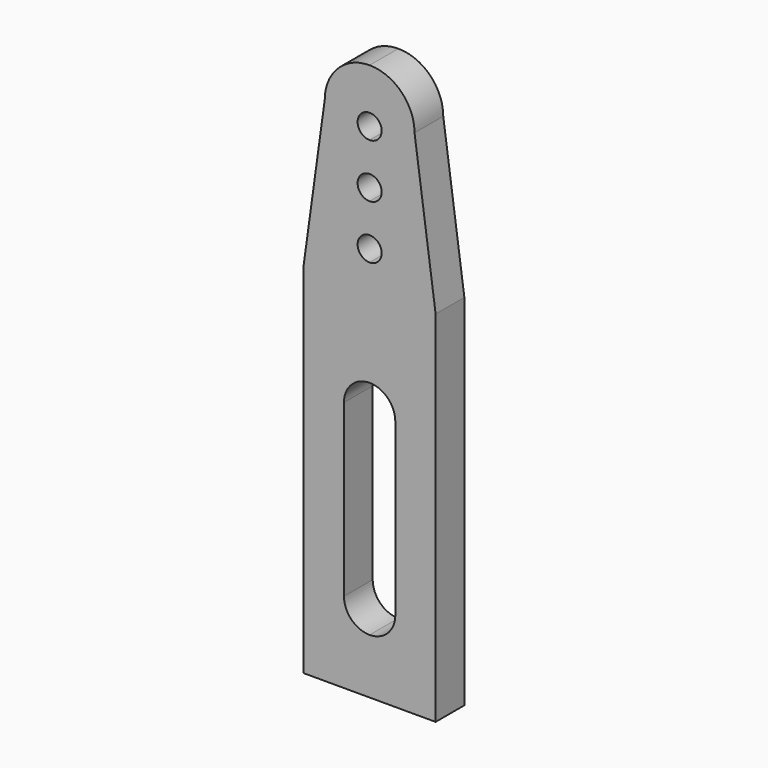
from build123d import *

# Parameters (mm, degrees)
F1_DEPTH = 50.8


with BuildPart() as f1:
    # F0 (on Front) → F1 (new body)
    with BuildSketch(Plane.XZ):
        with BuildLine():
            ThreePointArc((-36.322, 114.3), (-25.683533, 88.616467), (0, 77.978))
            Line((0, 77.978), (0, 114.3))
            Line((0, 114.3), (0, 355.6))
            Line((0, 355.6), (0, 391.922))
            ThreePointArc((0, 391.922), (-25.683533, 381.283533), (-36.322, 355.6))
            Line((-36.322, 355.6), (-36.322, 114.3))
        make_face()
        with BuildLine():
            Line((-93.345, 0), (0, 0))
            Line((0, 0), (93.345, 0))
            Line((93.345, 0), (93.345, 508))
            Line((93.345, 508), (63.5, 723.9))
            ThreePointArc((63.5, 723.9), (44.901281, 768.801281), (0, 787.4))
            ThreePointArc((0, 787.4), (-44.901281, 768.801281), (-63.5, 723.9))
            Line((-63.5, 723.9), (-93.345, 508))
            Line((-93.345, 508), (-93.345, 0))
        make_face()
        with BuildLine():
            ThreePointArc((36.322, 114.3), (25.683533, 88.616467), (0, 77.978))
            ThreePointArc((0, 77.978), (-25.683533, 88.616467), (-36.322, 114.3))
            Line((-36.322, 114.3), (-36.322, 355.6))
            ThreePointArc((-36.322, 355.6), (-25.683533, 381.283533), (0, 391.922))
            ThreePointArc((0, 391.922), (25.683533, 381.283533), (36.322, 355.6))
            Line((36.322, 355.6), (36.322, 114.3))
        make_face(mode=Mode.SUBTRACT)
        with BuildLine():
            ThreePointArc((17.018, 558.8), (12.033543, 546.766457), (0, 541.782))
            ThreePointArc((0, 541.782), (-17.018, 558.8), (0, 575.818))
            ThreePointArc((0, 575.818), (12.033543, 570.833543), (17.018, 558.8))
        make_face(mode=Mode.SUBTRACT)
        with BuildLine():
            ThreePointArc((17.018, 635), (12.033543, 622.966457), (0, 617.982))
            ThreePointArc((0, 617.982), (-17.018, 635), (0, 652.018))
            ThreePointArc((0, 652.018), (12.033543, 647.033543), (17.018, 635))
        make_face(mode=Mode.SUBTRACT)
        with BuildLine():
            ThreePointArc((17.018, 711.2), (12.033543, 699.166457), (0, 694.182))
            ThreePointArc((0, 694.182), (-15.901901, 705.138493), (-11.327944, 723.9))
            ThreePointArc((-11.327944, 723.9), (-6.061507, 727.101901), (0, 728.218))
            ThreePointArc((0, 728.218), (6.061507, 727.101901), (11.327944, 723.9))
            ThreePointArc((11.327944, 723.9), (15.530475, 718.15821), (17.018, 711.2))
        make_face(mode=Mode.SUBTRACT)
    extrude(amount=F1_DEPTH)


solid = f1.part
